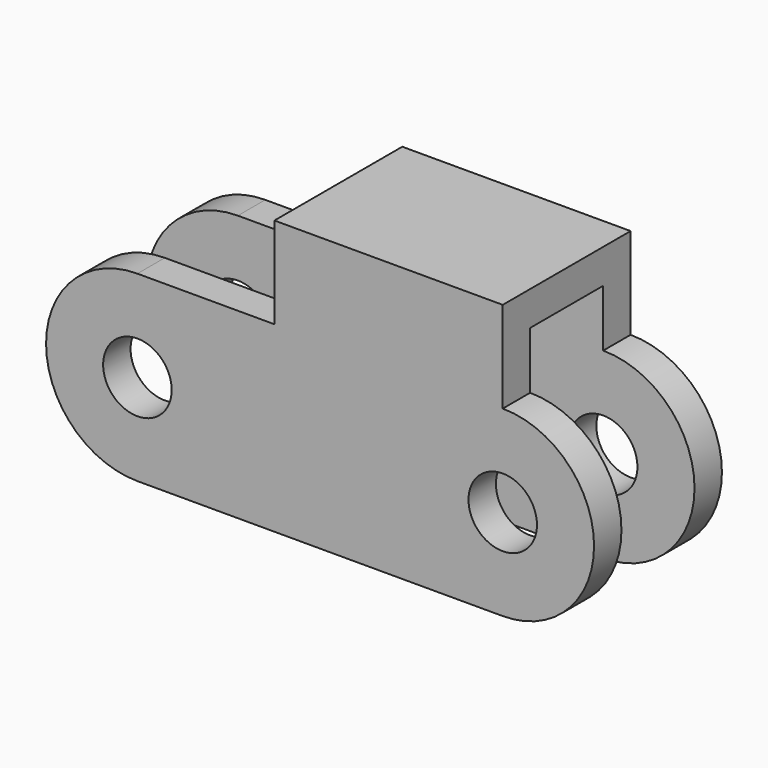
from build123d import *

# Parameters (mm, degrees)
F0_R     = 3
F0_W     = 20
F0_H     = 8
F1_DEPTH = 7
F2_W     = 8
F2_H     = 26
F3_DEPTH = 47.20012


with BuildPart() as f1:
    # F0 (on Front) → F1 (new body, symmetric)
    with BuildSketch(Plane.XZ):
        with BuildLine():
            ThreePointArc((-32, 8), (-40, 0), (-32, -8))
            Line((-32, -8), (0, -8))
            ThreePointArc((0, -8), (8, 0), (0, 8))
            Line((0, 8), (-20, 8))
            Line((-20, 8), (-32, 8))
        make_face()
        with Locations((-32, 0)):
            Circle(F0_R, mode=Mode.SUBTRACT)
        Circle(F0_R, mode=Mode.SUBTRACT)
        with Locations((-10, 12)):
            Rectangle(F0_W, F0_H)
    extrude(amount=F1_DEPTH, both=True)

    # F2 (on Right) → F3 (cut, symmetric)
    with BuildSketch(Plane.YZ):
        Rectangle(F2_W, F2_H)
    extrude(amount=F3_DEPTH, both=True, mode=Mode.SUBTRACT)


solid = f1.part
